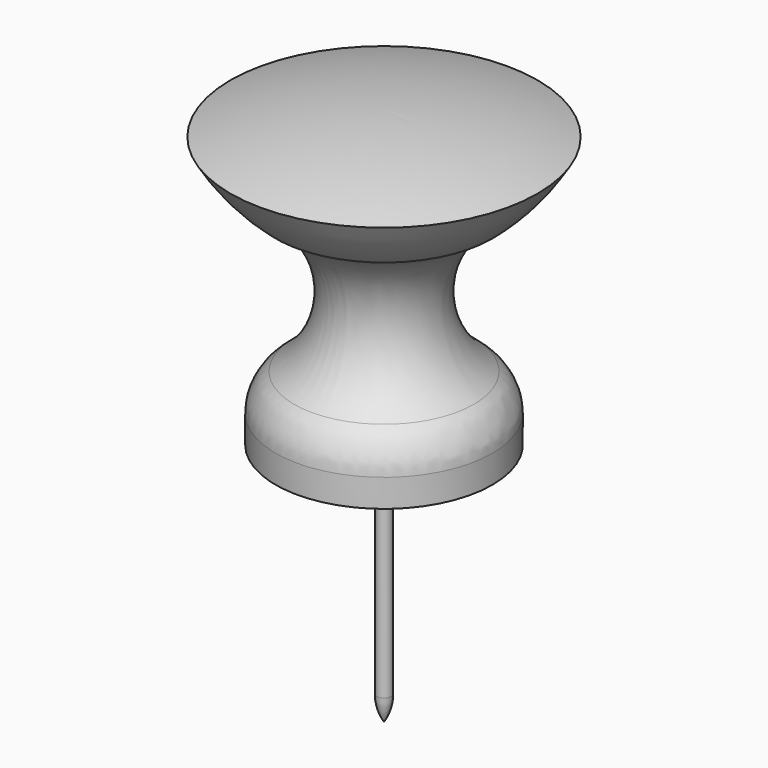
from build123d import *

# Parameters (mm, degrees)
F2_R = 2.54


with BuildPart() as f1:
    # F0 (on Front) → F1 (revolve)
    with BuildSketch(Plane.XZ):
        with BuildLine():
            Line((8.466667, 7.470588), (0, 7.470588))
            Line((0, 7.470588), (0, -7.470588))
            Line((0, -7.470588), (0.396875, -7.470588))
            Line((0.396875, -7.470588), (5.976471, -7.470588))
            Line((5.976471, -7.470588), (5.976471, -4.482353))
            ThreePointArc((5.976471, -4.482353), (2.988235, 0), (5.976471, 4.482353))
            ThreePointArc((5.976471, 4.482353), (7.350399, 5.869112), (8.466667, 7.470588))
        make_face()
        with BuildLine():
            Line((0, 8.763284), (0, 7.470588))
            Line((0, 7.470588), (8.466667, 7.470588))
            ThreePointArc((8.466667, 7.470588), (4.282489, 8.438885), (0, 8.763284))
        make_face()
        with BuildLine():
            Line((0.396875, -7.470588), (0, -7.470588))
            Line((0, -7.470588), (0, -20.917647))
            ThreePointArc((0, -20.917647), (0.295639, -20.264288), (0.396875, -19.554337))
            Line((0.396875, -19.554337), (0.396875, -7.470588))
        make_face()
    revolve(axis=Axis((0, 0, 0), (0, 0, -1)))

    # F2
    f2_edges = [f1.edges().sort_by_distance(p)[0] for p in [
        (-5.976471, 0, -4.482353),
    ]]
    fillet(f2_edges, radius=F2_R)


solid = f1.part
